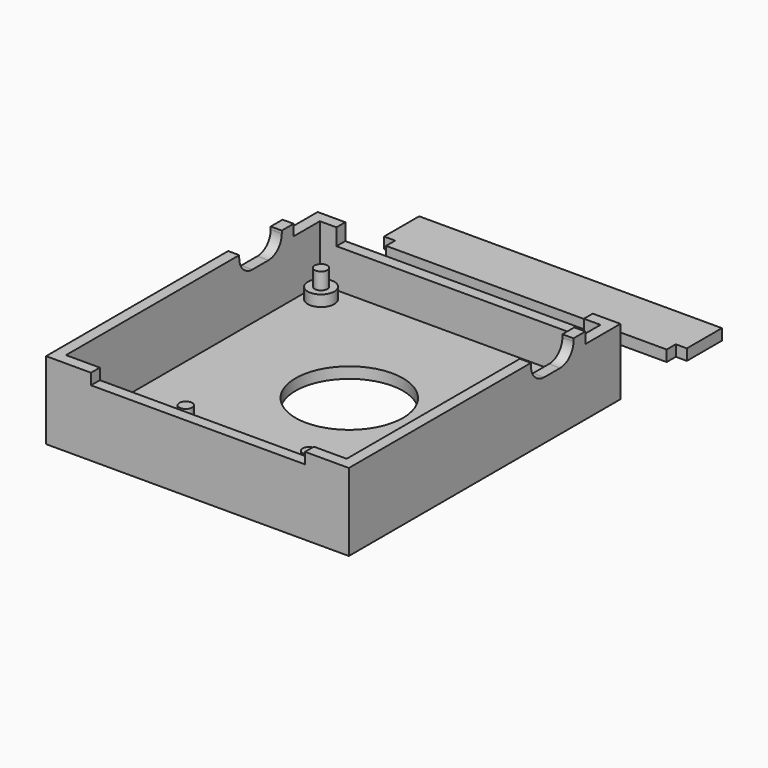
from build123d import *

# Parameters (mm, degrees)
F0_W      = 54.7
F0_H      = 61.32
F0_W_2    = 50.7
F0_H_2    = 57.32
F1_DEPTH  = 14
F2_DEPTH  = 2
F3_R      = 1.15
F4_DEPTH  = 5
F5_R      = 2.3945032788
F6_DEPTH  = 2
F7_W      = 2
F7_H      = 9.6
F8_DEPTH  = 3.5
F9_R      = 3
F10_W     = 2
F10_H     = 9.6
F11_DEPTH = 3.5
F12_R     = 3
F13_W     = 38.66
F13_H     = 2
F14_DEPTH = 2
F15_W     = 54.7
F15_H     = 7.9171418053
F16_DEPTH = 2
F17_W     = 50.7
F17_H     = 2.05323
F18_DEPTH = 2
F19_W     = 44.7
F19_H     = 2
F20_DEPTH = 3
F21_W     = 44.7
F21_H     = 2
F22_DEPTH = 3
F23_R     = 9.7091406399
F24_DEPTH = 3


with BuildPart() as f1:
    # F0 (on Top) → F1 (new body)
    with BuildSketch(Plane.XY):
        with Locations((0.3500037253, -8.655007627)):
            Rectangle(F0_W, F0_H)
        with Locations((0.3500037253, -8.655007627)):
            Rectangle(F0_W_2, F0_H_2, mode=Mode.SUBTRACT)
    extrude(amount=F1_DEPTH)

    # F0 (on Top) → F2 (join)
    with BuildSketch(Plane.XY):
        with Locations((0.3500037253, -8.655007627)):
            Rectangle(F0_W_2, F0_H_2)
    extrude(amount=F2_DEPTH)

    # F3 (on face) → F4 (join)
    with BuildSketch(Plane.XY.offset(2)):
        with Locations((21.8900037253, 16.654992373)):
            Circle(F3_R)
        with Locations((-21.9699962747, 16.494992373)):
            Circle(F3_R)
        with Locations((22.1100037253, -2.815007627)):
            Circle(F3_R)
        with Locations((11.6200037253, -28.205007627)):
            Circle(F3_R)
        with Locations((-10.6499962747, -28.205007627)):
            Circle(F3_R)
    extrude(amount=F4_DEPTH)

    # F5 (on face) → F6 (join)
    with BuildSketch(Plane.XY.offset(2)):
        with Locations((-10.6499962747, -28.205007627)):
            Circle(F5_R)
        with Locations((11.6200037253, -28.205007627)):
            Circle(F5_R)
        with Locations((22.1100037253, -2.815007627)):
            Circle(F5_R)
        with Locations((21.8900037253, 16.654992373)):
            Circle(F5_R)
        with Locations((-21.9699962747, 16.494992373)):
            Circle(F5_R)
    extrude(amount=F6_DEPTH)

    # F7 (on face) → F8 (cut)
    with BuildSketch(Plane.XY.offset(14)):
        with Locations((26.7000037253, 6.604992373)):
            Rectangle(F7_W, F7_H)
    extrude(amount=-F8_DEPTH, mode=Mode.SUBTRACT)

    # F9
    f9_edges = [f1.edges().sort_by_distance(p)[0] for p in [
        (26.700004, 11.404992, 10.5),
        (26.700004, 1.804992, 10.5),
    ]]
    fillet(f9_edges, radius=F9_R)

    # F10 (on face) → F11 (cut)
    with BuildSketch(Plane.XY.offset(14)):
        with Locations((-25.9999962747, 6.604992373)):
            Rectangle(F10_W, F10_H)
    extrude(amount=-F11_DEPTH, mode=Mode.SUBTRACT)

    # F12
    f12_edges = [f1.edges().sort_by_distance(p)[0] for p in [
        (-25.999996, 11.404992, 10.5),
        (-25.999996, 1.804992, 10.5),
    ]]
    fillet(f12_edges, radius=F12_R)

    # F13 (on face) → F14 (cut)
    with BuildSketch(Plane.XY.offset(14)):
        with Locations((0.4500037253, -38.315007627)):
            Rectangle(F13_W, F13_H)
    extrude(amount=-F14_DEPTH, mode=Mode.SUBTRACT)

    # F15 (on face) → F16 (cut)
    with BuildSketch(Plane.XY.offset(14)):
        with Locations((0.3500037253, 18.0464214703)):
            Rectangle(F15_W, F15_H)
    extrude(amount=-F16_DEPTH, mode=Mode.SUBTRACT)

    # F21 (on face) → F22 (cut)
    with BuildSketch(Plane.XY.offset(12)):
        with Locations((0.3500037253, 21.004992373)):
            Rectangle(F21_W, F21_H)
    extrude(amount=-F22_DEPTH, mode=Mode.SUBTRACT)

    # F23 (on face) → F24 (cut)
    with BuildSketch(Plane.XY.offset(2)):
        with Locations((0, -4.6012587845)):
            Circle(F23_R)
    extrude(amount=-F24_DEPTH, mode=Mode.SUBTRACT)


with BuildPart() as f18:
    # F17 (on Top) → F18 (new body)
    with BuildSketch(Plane.XY):
        Polygon((27.7000037253, 44.9277027175), (-26.9999962747, 44.9277027175), (-26.9999962747, 37.0107027175), (-24.9999962747, 37.0107027175), (25.7000037253, 37.0107027175), (27.7000037253, 37.0107027175), align=None)
        with Locations((0.3500037253, 35.9840877175)):
            Rectangle(F17_W, F17_H)
    extrude(amount=F18_DEPTH)

    # F19 (on face) → F20 (join)
    with BuildSketch(Plane(origin=(0, 0, 0), x_dir=(1, 0, 0), z_dir=(0, 0, -1))):
        with Locations((0.3500037253, -43.9277027175)):
            Rectangle(F19_W, F19_H)
    extrude(amount=F20_DEPTH)


solid = Compound([f1.part, f18.part])
